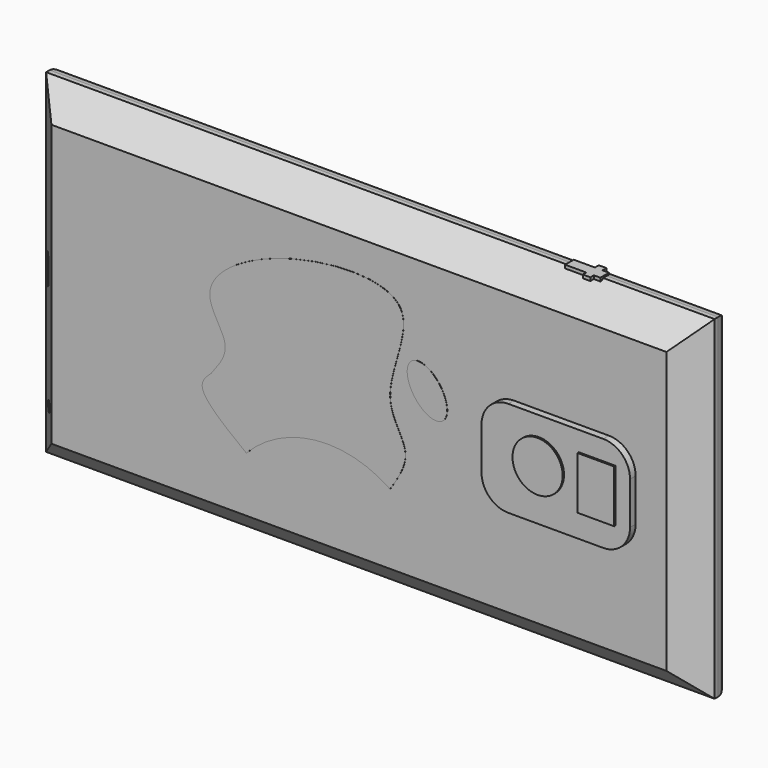
from build123d import *

# Parameters (mm, degrees)
F0_W      = 127
F0_H      = 63.5
F1_DEPTH  = 8.4666666667
F2_R      = 2.54
F3_W      = 106.2003225088
F3_H      = 46.3367272168
F4_DEPTH  = 0.1397
F5_SIZE   = 5.08
F6_R      = 4.2028856968
F7_DEPTH  = 0.381
F8_R      = 0.356508333
F8_R_2    = 0.3556
F8_R_3    = 0.4752442837
F9_DEPTH  = 0.381
F10_W     = 28.2049626112
F10_H     = 18.2368370481
F11_DEPTH = 1.3335
F12_R     = 5.08
F13_W     = 6.9876015186
F13_H     = 9.993921034
F14_DEPTH = 0.3175
F13_R     = 4.7685535727
F15_W     = 1.7923414707
F15_H     = 4.0167168006
F16_DEPTH = 3.175
F17_R     = 1.016
F18_DEPTH = 3.175
F19_W     = 1.2352466583
F19_H     = 2.0587400068
F19_W_2   = 1.4411173761
F19_H_2   = 0.9264331311
F19_W_3   = 4.014544189
F19_H_3   = 0.8234963752
F20_DEPTH = 0.3175
F22_DEPTH = 0.0254


with BuildPart() as f1:
    # F0 (on Front) → F1 (new body)
    with BuildSketch(Plane.XZ):
        with Locations((-1.3339536488, -5.376943469)):
            Rectangle(F0_W, F0_H)
    extrude(amount=F1_DEPTH)

    # F2
    f2_edges = [f1.edges().sort_by_distance(p)[0] for p in [
        (-1.333954, 0, 26.373057),
        (-64.833954, 0, -5.376943),
        (-1.333954, 0, -37.126943),
        (62.166046, 0, -5.376943),
    ]]
    fillet(f2_edges, radius=F2_R)

    # F5
    f5_edges = [f1.edges().sort_by_distance(p)[0] for p in [
        (-64.833954, -2.54, -5.376943),
        (-64.833954, -8.466667, -5.376943),
        (-1.333954, -8.466667, 26.373057),
        (-1.333954, -8.466667, -37.126943),
        (62.166046, -8.466667, -5.376943),
    ]]
    chamfer(f5_edges, length=F5_SIZE)

    # F15 (on face) → F16 (cut)
    with BuildSketch(Plane(origin=(-34.1103101577, -34.1103101577, 0), x_dir=(0.7071067812, -0.7071067812, 0), z_dir=(-0.7071067812, -0.7071067812, 0))):
        with BuildLine():
            ThreePointArc((-42.1797297895, -7.3853018694), (-41.2835590541, -8.2814726047), (-40.3873883188, -7.3853018694))
            Line((-40.3873883188, -7.3853018694), (-42.1797297895, -7.3853018694))
        make_face()
        with Locations((-41.2835590541, -5.376943469)):
            Rectangle(F15_W, F15_H)
        with BuildLine():
            Line((-42.1797297895, -3.3685850687), (-40.3873883188, -3.3685850687))
            ThreePointArc((-40.3873883188, -3.3685850687), (-41.2835590541, -2.4724143334), (-42.1797297895, -3.3685850687))
        make_face()
    extrude(amount=-F16_DEPTH, mode=Mode.SUBTRACT)

    # F17 (on face) → F18 (cut)
    with BuildSketch(Plane(origin=(-34.1103101577, -34.1103101577, 0), x_dir=(0.7071067812, -0.7071067812, 0), z_dir=(-0.7071067812, -0.7071067812, 0))):
        with Locations((-39.754666388, -27.5892131031)):
            Circle(F17_R)
    extrude(amount=-F18_DEPTH, mode=Mode.SUBTRACT)

    # F19 (on face) → F20 (join, symmetric)
    with BuildSketch(Plane.XY.offset(26.373056531)):
        with Locations((40.3811186552, -3.0323684914)):
            Rectangle(F19_W, F19_H)
        with Locations((39.042936638, -3.0323684914)):
            Rectangle(F19_W_2, F19_H)
        with Locations((39.042936638, -1.5397819225)):
            Rectangle(F19_W_2, F19_H_2)
        with Locations((36.3151058555, -3.0323684914)):
            Rectangle(F19_W_3, F19_H)
        with Locations((39.042936638, -4.4734866824)):
            Rectangle(F19_W_2, F19_H_3)
    extrude(amount=F20_DEPTH, both=True)


with BuildPart() as f4:
    # F3 (on face) → F4 (new body, symmetric)
    with BuildSketch(Plane(origin=(0, 0, 0), x_dir=(-1, 0, 0), z_dir=(0, 1, 0))):
        with Locations((-1.8707364798, -5.6122122332)):
            Rectangle(F3_W, F3_H)
    extrude(amount=F4_DEPTH, both=True)


with BuildPart() as f7:
    # F6 (on face) → F7 (new body)
    with BuildSketch(Plane(origin=(0, 0, 0), x_dir=(-1, 0, 0), z_dir=(0, 1, 0))):
        with Locations((57.1867190301, -5.376943469)):
            Circle(F6_R)
    extrude(amount=F7_DEPTH)


with BuildPart() as f9:
    # F8 (on face) → F9 (new body)
    with BuildSketch(Plane(origin=(0, 0, 0), x_dir=(-1, 0, 0), z_dir=(0, 1, 0))):
        with BuildLine():
            add(Edge.make_bspline(
                [(-58.2055896521, -5.376943469), (-58.2055896521, -3.5846289794), (-58.2055896521, -1.7923144897), (-58.2055896521, 0)],
                knots=[0, 0, 0, 0, 5.376943469, 5.376943469, 5.376943469, 5.376943469], degree=3))
            add(Edge.make_bspline(
                [(-58.2055896521, -5.376943469), (-58.2055896521, -6.9267380908), (-58.2055896521, -8.4765327126), (-58.2055896521, -10.0263273343)],
                knots=[0, 0, 0, 0, 4.6493838653, 4.6493838653, 4.6493838653, 4.6493838653], degree=3))
            ThreePointArc((-58.2055896521, -10.0263273343), (-57.4383437634, -10.812175597), (-56.6710978746, -10.0263273343))
            Line((-56.6710978746, -10.0263273343), (-56.6710978746, 0))
            ThreePointArc((-56.6710978746, 0), (-57.4383437634, 0.7672458887), (-58.2055896521, 0))
        make_face()
        with Locations((-57.3250167072, -8.4765327126)):
            Circle(F8_R, mode=Mode.SUBTRACT)
        with Locations((-57.3596656322, -6.9267380908)):
            Circle(F8_R_2, mode=Mode.SUBTRACT)
        with Locations((-57.3596656322, -5.376943469)):
            Circle(F8_R_2, mode=Mode.SUBTRACT)
        with Locations((-57.2903640568, -3.5846289794)):
            Circle(F8_R_2, mode=Mode.SUBTRACT)
        with Locations((-57.2903640568, -1.7923144897)):
            Circle(F8_R_3, mode=Mode.SUBTRACT)
    extrude(amount=F9_DEPTH)


with BuildPart() as f11:
    # F10 (on face) → F11 (new body)
    with BuildSketch(Plane.XZ.offset(8.4666666667)):
        with Locations((37.126943469, -5.376943469)):
            Rectangle(F10_W, F10_H)
    extrude(amount=F11_DEPTH)

    # F12
    f12_edges = [f11.edges().sort_by_distance(p)[0] for p in [
        (51.229425, -9.133417, -14.495362),
        (51.229425, -9.133417, 3.741475),
        (23.024462, -9.133417, -14.495362),
        (23.024462, -9.133417, 3.741475),
    ]]
    fillet(f12_edges, radius=F12_R)


with BuildPart() as f14:
    # F13 (on face) → F14 (new body)
    with BuildSketch(Plane.XZ.offset(9.8001666667)):
        with Locations((44.9830889702, -4.996960517)):
            Rectangle(F13_W, F13_H)
    extrude(amount=F14_DEPTH)


with BuildPart() as f14b:
    # F13 (on face) → F14, piece 2 (new body)
    with BuildSketch(Plane.XZ.offset(9.8001666667)):
        with Locations((33.919390291, -4.7058109194)):
            Circle(F13_R)
    extrude(amount=F14_DEPTH)


with BuildPart() as f22:
    # F21 (on face) → F22 (new body)
    with BuildSketch(Plane.XZ.offset(8.4666666667)):
        with BuildLine():
            add(Edge.make_bspline(
                [(-29.3561872095, -10.3610064834), (-27.9023607324, -8.5043653152), (-24.8100516889, -4.5552638469), (-33.5578495132, 3.962147113), (-16.8169005892, 15.5313912391), (13.5245889556, 16.8525969839), (1.4095976482, -3.6935297533), (9.4825015324, -11.211632561), (6.1950551378, -16.2636667767), (4.6048923396, -18.7073741108)],
                knots=[0, 0, 0, 0, 0.105040972, 0.2234236017, 0.3971629351, 0.595386368, 0.7593841976, 0.8836123082, 1, 1, 1, 1], degree=3))
            add(Edge.make_bspline(
                [(-29.3561872095, -10.3610064834), (-30.2861615246, -11.2078580395), (-32.9767839407, -13.6579878366), (-26.7685867487, -18.4320634412), (-22.7061621845, -21.5560495853)],
                knots=[0, 0, 0, 0, 0.3456353852, 1, 1, 1, 1], degree=3))
            ThreePointArc((-22.7061621845, -21.5560495853), (-9.5719059436, -15.1341396755), (4.6048923396, -18.7073741108))
        make_face()
    extrude(amount=F22_DEPTH)


with BuildPart() as f22b:
    # F21 (on face) → F22, piece 2 (new body)
    with BuildSketch(Plane.XZ.offset(8.4666666667)):
        with BuildLine():
            add(Edge.make_bspline(
                [(14.5610254258, -4.0870602243), (18.7811430537, -1.080775362), (12.3038360845, 3.5466725433), (5.8265291154, 8.1741204485), (8.0837184567, 0.540387681), (10.3409077979, -7.0933450865), (14.5610254258, -4.0870602243)],
                knots=[0, 0, 0, 2.0943951024, 2.0943951024, 4.1887902048, 4.1887902048, 6.2831853072, 6.2831853072, 6.2831853072], degree=2, weights=[1, 0.5, 1, 0.5, 1, 0.5, 1]))
        make_face()
    extrude(amount=F22_DEPTH)


solid = Compound([f1.part, f4.part, f7.part, f9.part, f11.part, f14.part, f14b.part, f22.part, f22b.part])
